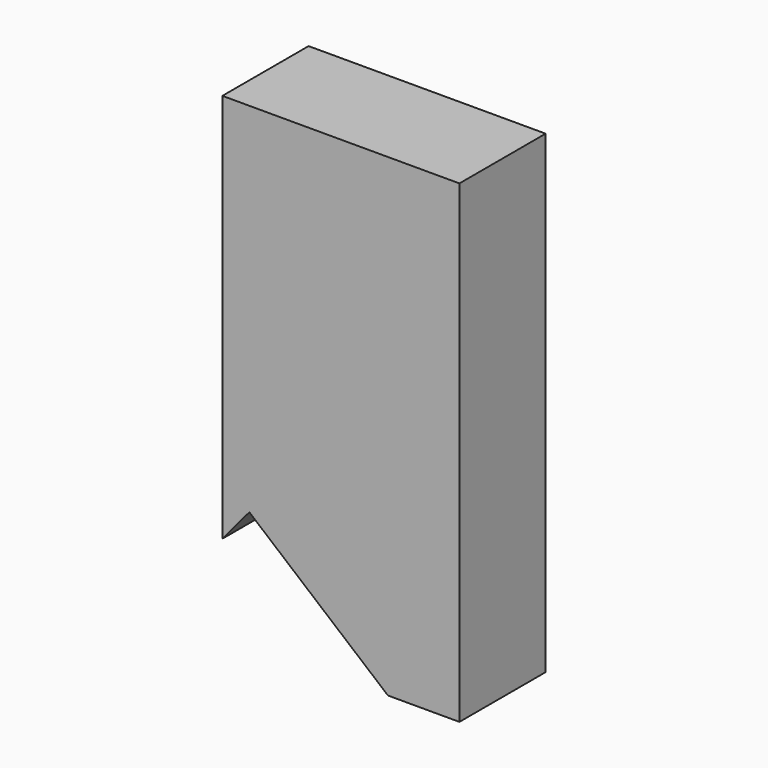
from build123d import *

# Parameters (mm, degrees)
BOX019_W               = 5
BOX019_H               = 96
BOX019_DEPTH           = 60
BOX019_PLACEMENT_ANGLE = 310
BOX018_W               = 11
BOX018_H               = 5
BOX018_DEPTH           = 22


with BuildPart() as cube019:
    # Box019 → Box019 (new body)
    with BuildSketch(Plane.XY):
        with Locations((2.5, 48)):
            Rectangle(BOX019_W, BOX019_H)
    extrude(amount=BOX019_DEPTH)


with BuildPart() as cube019_1:
    # Box019 placement: moved
    add(cube019.part.moved(Location((70, 2, -59))).rotate(Axis((70, 2, -59), (0, 1, 0)), BOX019_PLACEMENT_ANGLE))


with BuildPart() as cut010:
    # Box018 → Box018 (new body)
    with BuildSketch(Plane(origin=(26, 93, -22), x_dir=(1, 0, 0), z_dir=(0, 0, 1))):
        with Locations((5.5, 2.5)):
            Rectangle(BOX018_W, BOX018_H)
    extrude(amount=BOX018_DEPTH)

    # Cut010: cut Cube019
    add(cube019_1.part, mode=Mode.SUBTRACT)


solid = cut010.part
